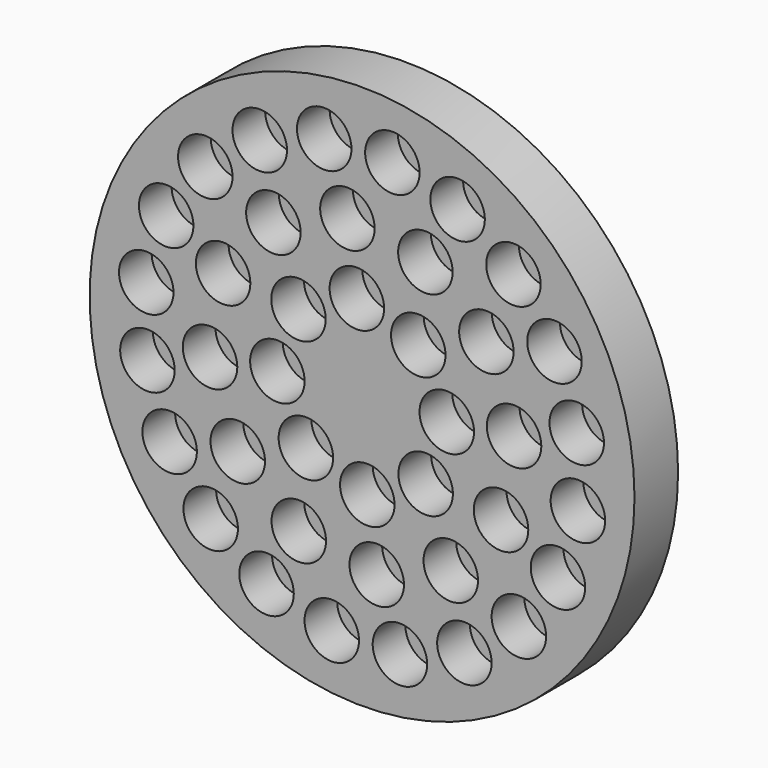
from build123d import *

# Parameters (mm, degrees)
F0_R     = 10
F1_DEPTH = 5
F0_R_2   = 100
F2_DEPTH = 20


with BuildPart() as f1:
    # F0 (on Front) → F1 (new body)
    with BuildSketch(Plane.XZ):
        with Locations((-57.55233, 55.56734)):
            Circle(F0_R)
        with Locations((-1.917856, 31.089398)):
            Circle(F0_R)
        with Locations((-13.89915, 78.783333)):
            Circle(F0_R)
        with Locations((23.242591, 51.007309)):
            Circle(F0_R)
        with Locations((55.794921, 5.37498)):
            Circle(F0_R)
        with Locations((1.917856, -31.089398)):
            Circle(F0_R)
        with Locations((55.56734, 57.55233)):
            Circle(F0_R)
        with Locations((11.126512, 79.222476)):
            Circle(F0_R)
        with Locations((-23.339653, 20.627395)):
            Circle(F0_R)
        with Locations((51.007309, -23.242591)):
            Circle(F0_R)
        with Locations((-55.794921, -5.37498)):
            Circle(F0_R)
        with Locations((-31.089398, -1.917856)):
            Circle(F0_R)
        with Locations((-51.007309, 23.242591)):
            Circle(F0_R)
        with Locations((-78.783333, -13.89915)):
            Circle(F0_R)
        with Locations((20.627395, 23.339653)):
            Circle(F0_R)
        with Locations((-79.222476, 11.126512)):
            Circle(F0_R)
        with Locations((37.564266, -70.632329)):
            Circle(F0_R)
        with Locations((-32.55233, 45.632329)):
            Circle(F0_R)
        with Locations((32.55233, -45.632329)):
            Circle(F0_R)
        with Locations((-5.37498, 55.794921)):
            Circle(F0_R)
        with Locations((-23.242591, -51.007309)):
            Circle(F0_R)
        with Locations((5.37498, -55.794921)):
            Circle(F0_R)
        with Locations((70.632329, 37.564266)):
            Circle(F0_R)
        with Locations((13.89915, -78.783333)):
            Circle(F0_R)
        with Locations((-35.063033, -71.906771)):
            Circle(F0_R)
        with Locations((78.783333, 13.89915)):
            Circle(F0_R)
        with Locations((57.55233, -55.56734)):
            Circle(F0_R)
        with Locations((-45.632329, -32.55233)):
            Circle(F0_R)
        with Locations((79.222476, -11.126512)):
            Circle(F0_R)
        with Locations((-20.627395, -23.339653)):
            Circle(F0_R)
        with Locations((-37.564266, 70.632329)):
            Circle(F0_R)
        with Locations((71.906771, -35.063033)):
            Circle(F0_R)
        with Locations((-11.126512, -79.222476)):
            Circle(F0_R)
        with Locations((35.063033, 71.906771)):
            Circle(F0_R)
        with Locations((-70.632329, -37.564266)):
            Circle(F0_R)
        with Locations((31.089398, 1.917856)):
            Circle(F0_R)
        with Locations((45.632329, 32.55233)):
            Circle(F0_R)
        with Locations((23.339653, -20.627395)):
            Circle(F0_R)
        with Locations((-55.56734, -57.55233)):
            Circle(F0_R)
        with Locations((-71.906771, 35.063033)):
            Circle(F0_R)
    extrude(amount=F1_DEPTH)


with BuildPart() as f2:
    # F0 (on Front) → F2 (new body)
    with BuildSketch(Plane.XZ):
        Circle(F0_R_2)
        with Locations((-55.56734, -57.55233)):
            Circle(F0_R, mode=Mode.SUBTRACT)
        with Locations((-11.126512, -79.222476)):
            Circle(F0_R, mode=Mode.SUBTRACT)
        with Locations((-35.063033, -71.906771)):
            Circle(F0_R, mode=Mode.SUBTRACT)
        with Locations((-23.242591, -51.007309)):
            Circle(F0_R, mode=Mode.SUBTRACT)
        with Locations((-70.632329, -37.564266)):
            Circle(F0_R, mode=Mode.SUBTRACT)
        with Locations((-78.783333, -13.89915)):
            Circle(F0_R, mode=Mode.SUBTRACT)
        with Locations((-55.794921, -5.37498)):
            Circle(F0_R, mode=Mode.SUBTRACT)
        with Locations((-45.632329, -32.55233)):
            Circle(F0_R, mode=Mode.SUBTRACT)
        with Locations((-31.089398, -1.917856)):
            Circle(F0_R, mode=Mode.SUBTRACT)
        with Locations((-20.627395, -23.339653)):
            Circle(F0_R, mode=Mode.SUBTRACT)
        with Locations((13.89915, -78.783333)):
            Circle(F0_R, mode=Mode.SUBTRACT)
        with Locations((5.37498, -55.794921)):
            Circle(F0_R, mode=Mode.SUBTRACT)
        with Locations((37.564266, -70.632329)):
            Circle(F0_R, mode=Mode.SUBTRACT)
        with Locations((57.55233, -55.56734)):
            Circle(F0_R, mode=Mode.SUBTRACT)
        with Locations((1.917856, -31.089398)):
            Circle(F0_R, mode=Mode.SUBTRACT)
        with Locations((32.55233, -45.632329)):
            Circle(F0_R, mode=Mode.SUBTRACT)
        with Locations((23.339653, -20.627395)):
            Circle(F0_R, mode=Mode.SUBTRACT)
        with Locations((71.906771, -35.063033)):
            Circle(F0_R, mode=Mode.SUBTRACT)
        with Locations((51.007309, -23.242591)):
            Circle(F0_R, mode=Mode.SUBTRACT)
        with Locations((79.222476, -11.126512)):
            Circle(F0_R, mode=Mode.SUBTRACT)
        with Locations((-79.222476, 11.126512)):
            Circle(F0_R, mode=Mode.SUBTRACT)
        with Locations((-51.007309, 23.242591)):
            Circle(F0_R, mode=Mode.SUBTRACT)
        with Locations((-71.906771, 35.063033)):
            Circle(F0_R, mode=Mode.SUBTRACT)
        with Locations((-23.339653, 20.627395)):
            Circle(F0_R, mode=Mode.SUBTRACT)
        with Locations((-32.55233, 45.632329)):
            Circle(F0_R, mode=Mode.SUBTRACT)
        with Locations((-1.917856, 31.089398)):
            Circle(F0_R, mode=Mode.SUBTRACT)
        with Locations((-57.55233, 55.56734)):
            Circle(F0_R, mode=Mode.SUBTRACT)
        with Locations((-37.564266, 70.632329)):
            Circle(F0_R, mode=Mode.SUBTRACT)
        with Locations((-5.37498, 55.794921)):
            Circle(F0_R, mode=Mode.SUBTRACT)
        with Locations((-13.89915, 78.783333)):
            Circle(F0_R, mode=Mode.SUBTRACT)
        with Locations((20.627395, 23.339653)):
            Circle(F0_R, mode=Mode.SUBTRACT)
        with Locations((31.089398, 1.917856)):
            Circle(F0_R, mode=Mode.SUBTRACT)
        with Locations((45.632329, 32.55233)):
            Circle(F0_R, mode=Mode.SUBTRACT)
        with Locations((55.794921, 5.37498)):
            Circle(F0_R, mode=Mode.SUBTRACT)
        with Locations((78.783333, 13.89915)):
            Circle(F0_R, mode=Mode.SUBTRACT)
        with Locations((70.632329, 37.564266)):
            Circle(F0_R, mode=Mode.SUBTRACT)
        with Locations((23.242591, 51.007309)):
            Circle(F0_R, mode=Mode.SUBTRACT)
        with Locations((35.063033, 71.906771)):
            Circle(F0_R, mode=Mode.SUBTRACT)
        with Locations((11.126512, 79.222476)):
            Circle(F0_R, mode=Mode.SUBTRACT)
        with Locations((55.56734, 57.55233)):
            Circle(F0_R, mode=Mode.SUBTRACT)
    extrude(amount=F2_DEPTH)


solid = Compound([f1.part, f2.part])
